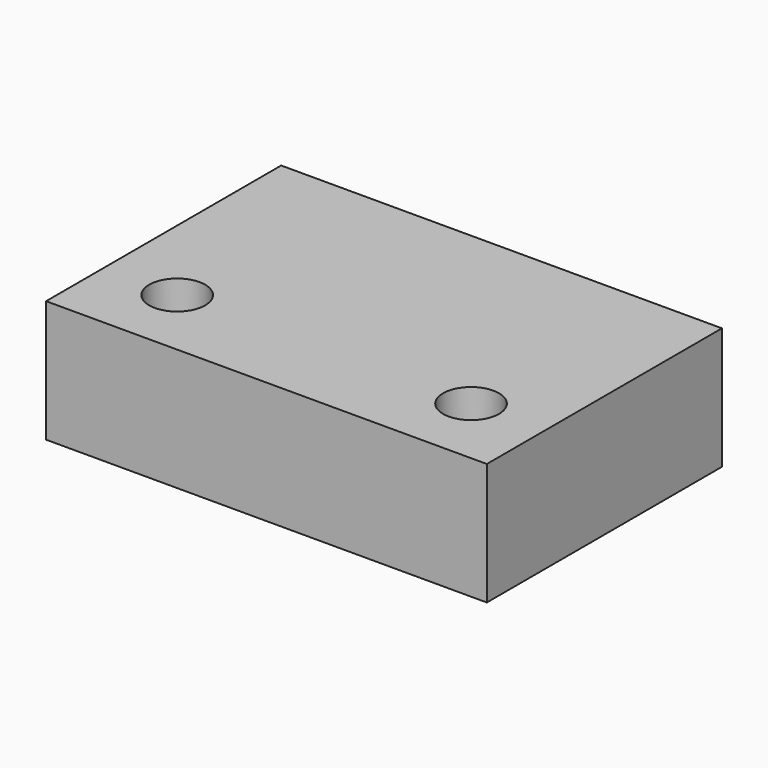
from build123d import *

# Parameters (mm, degrees)
F0_W     = 76.2
F0_H     = 50.8
F0_R     = 4.8387
F1_DEPTH = 21.082
F0_R_2   = 3.2639
F2_DEPTH = 14.351


with BuildPart() as f1:
    # F0 (on Top) → F1 (new body)
    with BuildSketch(Plane.XY):
        with Locations((0.022138, 11.777052)):
            Rectangle(F0_W, F0_H)
        with Locations((-25.377862, -1.164248)):
            Circle(F0_R, mode=Mode.SUBTRACT)
        with Locations((25.422138, -1.164248)):
            Circle(F0_R, mode=Mode.SUBTRACT)
    extrude(amount=F1_DEPTH)

    # F0 (on Top) → F2 (join)
    with BuildSketch(Plane.XY):
        with Locations((-25.377862, -1.164248)):
            Circle(F0_R)
        with Locations((-25.377862, -1.164248)):
            Circle(F0_R_2, mode=Mode.SUBTRACT)
        with Locations((25.422138, -1.164248)):
            Circle(F0_R)
        with Locations((25.422138, -1.164248)):
            Circle(F0_R_2, mode=Mode.SUBTRACT)
    extrude(amount=F2_DEPTH)


solid = f1.part
